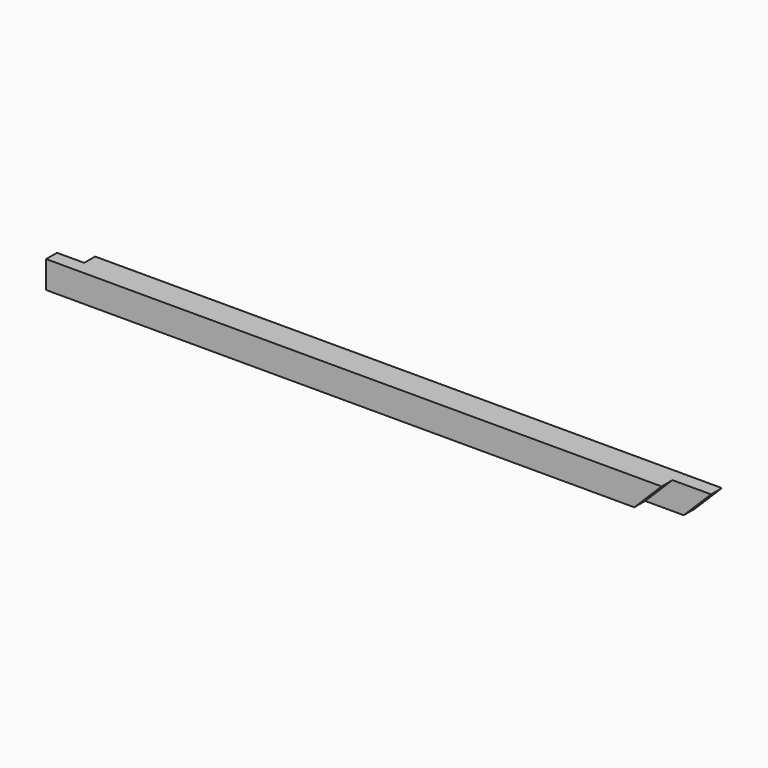
from build123d import *

# Parameters (mm, degrees)
F0_W     = 1150
F0_H     = 50
F1_DEPTH = 50
F3_DEPTH = 25
F4_W     = 50
F4_H     = 50
F5_DEPTH = 25
F6_DEPTH = 25


with BuildPart() as f1:
    # F0 (on Front) → F1 (new body)
    with BuildSketch(Plane.XZ):
        with Locations((949.597177, 49.70942)):
            Rectangle(F0_W, F0_H)
        Polygon((1524.597177, 74.70942), (1524.597177, 24.70942), (1574.597177, 74.70942), align=None)
    extrude(amount=F1_DEPTH)

    # F2 (on face) → F3 (cut)
    with BuildSketch(Plane.XZ.offset(50)):
        Polygon((1524.597177, 24.70942), (1574.597177, 74.70942), (1503.886499, 74.70942), (1453.886499, 24.70942), align=None)
    extrude(amount=-F3_DEPTH, mode=Mode.SUBTRACT)

    # F4 (on face) → F5 (cut)
    with BuildSketch(Plane(origin=(0, 0, 0), x_dir=(-1, 0, 0), z_dir=(0, 1, 0))):
        with Locations((-399.597177, 49.70942)):
            Rectangle(F4_W, F4_H)
    extrude(amount=-F5_DEPTH, mode=Mode.SUBTRACT)

    # F2 (on face) → F6 (cut)
    with BuildSketch(Plane.XZ.offset(50)):
        Polygon((1524.597177, 24.70942), (1574.597177, 74.70942), (1503.886499, 74.70942), (1453.886499, 24.70942), align=None)
    extrude(amount=-F6_DEPTH, mode=Mode.SUBTRACT)


solid = f1.part
